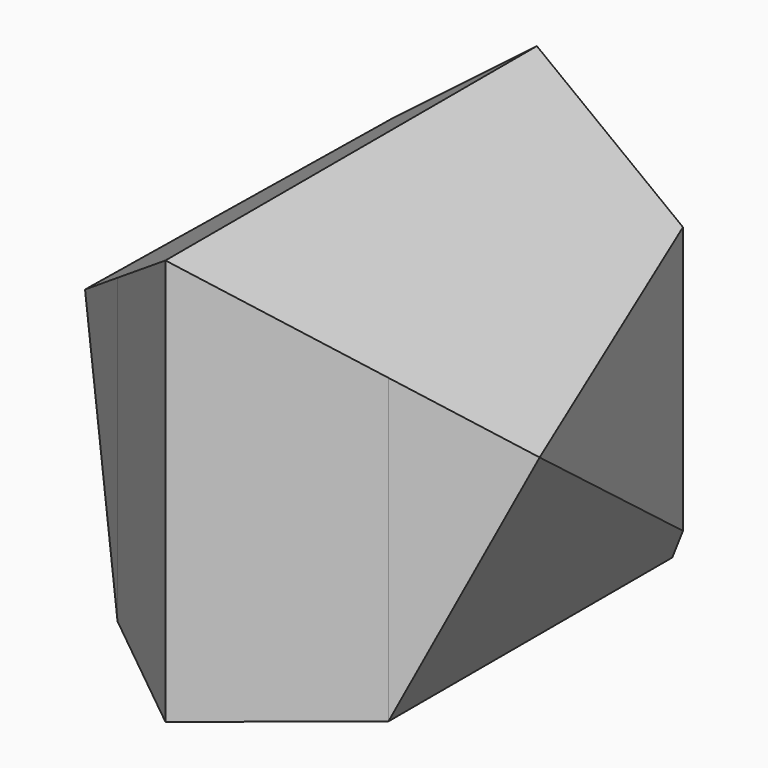
from build123d import *

# Parameters (mm, degrees)
F0_W     = 470
F0_H     = 420
F1_DEPTH = 240
F3_DEPTH = 480.001
F5_DEPTH = 420.001


with BuildPart() as f1:
    # F0 (on Front) → F1 (new body, symmetric)
    with BuildSketch(Plane.XZ):
        Rectangle(F0_W, F0_H)
    extrude(amount=F1_DEPTH, both=True)

    # F2 (on face) → F3 (cut, through all)
    with BuildSketch(Plane.XZ.offset(240)):
        Polygon((0, 210), (235, 30), (235, 210), align=None)
        Polygon((235, 30), (140, -210), (235, -210), align=None)
        Polygon((-235, -210), (-140, -210), (-235, 30), align=None)
        Polygon((-235, 30), (0, 210), (-235, 210), align=None)
    extrude(amount=-F3_DEPTH, mode=Mode.SUBTRACT)

    # F4 (on face) → F5 (cut, through all)
    with BuildSketch(Plane(origin=(0, 0, -210), x_dir=(1, 0, 0), z_dir=(0, 0, -1))):
        Polygon((140, 126.917813), (235, 50.183472), (235, 240), (140, 240), align=None)
        Polygon((0, 240), (140, 126.917813), (140, 240), align=None)
        Polygon((235, 50.183472), (151.042473, -240), (235, -240), align=None)
        Polygon((-235, -240), (-151.042473, -240), (-235, 50.183472), align=None)
        Polygon((-235, 50.183472), (-140, 126.917813), (-140, 240), (-235, 240), align=None)
        Polygon((-140, 126.917813), (0, 240), (-140, 240), align=None)
    extrude(amount=-F5_DEPTH, mode=Mode.SUBTRACT)


solid = f1.part
